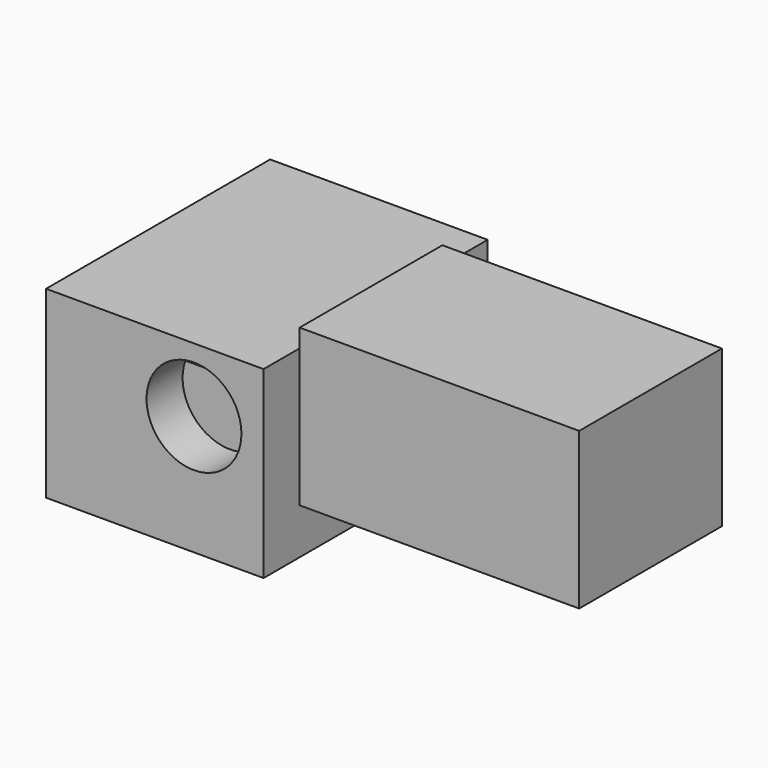
from build123d import *

# Parameters (mm, degrees)
F1_W     = 83.3939239383
F1_H     = 70.5358162522
F1_R     = 18.1915256805
F2_DEPTH = 107.3792502284
F3_W     = 68.390481174
F3_H     = 34.5757827163
F4_DEPTH = 190.568074584
F5_DEPTH = 25.4


with BuildPart() as f2:
    # F1 (on face) → F2 (new body)
    with BuildSketch(Plane.XZ):
        with Locations((-1.7756335437, 1.8368847668)):
            Rectangle(F1_W, F1_H)
        with Locations((13.2254809141, 12.4907270074)):
            Circle(F1_R, mode=Mode.SUBTRACT)
    extrude(amount=F2_DEPTH)

    # F3 (on face) → F4 (join)
    with BuildSketch(Plane(origin=(-43.4725955129, 0, 0), x_dir=(0, -1, 0), z_dir=(-1, 0, 0))):
        with Locations((55.904109031, 1.3973750174)):
            Rectangle(F3_W, F3_H)
    extrude(amount=-F4_DEPTH)

    # F5 (add): a face of the model
    f5_faces = [f2.faces().sort_by_distance(p)[0] for p in [
        (93.5084037483, -55.904109031, 18.6852663755),
    ]]
    extrude(f5_faces, amount=F5_DEPTH)


solid = f2.part
